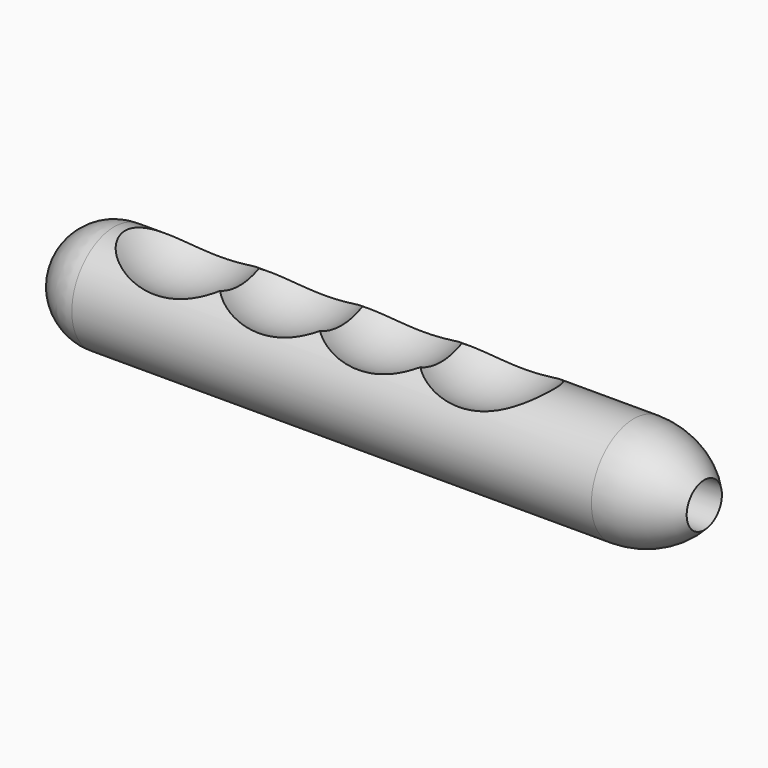
from build123d import *

# Parameters (mm, degrees)
F6_D     = 8.636
F6_DEPTH = 92.9581977781


with BuildPart() as f1:
    # F0 (on Front) → F1 (revolve)
    with BuildSketch(Plane.XZ):
        with BuildLine():
            ThreePointArc((16.7571976781, 0), (9.8628798796, 7.5934190246), (0, 10.4068210348))
            Line((0, 10.4068210348), (-101.8486917019, 10.4068210348))
            ThreePointArc((-101.8486917019, 10.4068210348), (-109.2434617648, 7.3648443388), (-112.3571917415, 0))
            Line((-112.3571917415, 0), (16.7571976781, 0))
        make_face()
    revolve(axis=Axis((-47.7999970317, 0, 0), (-1, 0, 0)))

    # F2 (on Front) → F3 (revolve, cut)
    with BuildSketch(Plane.XZ):
        with BuildLine():
            ThreePointArc((-57.3450438678, 31.5851293372), (-67.3921211303, 35.0517985606), (-77.2846598079, 31.1660250808))
            ThreePointArc((-77.2846598079, 31.1660250808), (-93.7861129832, 33.7100147171), (-102.8604035241, 19.694769755))
            Line((-102.8604035241, 19.694769755), (-87.4999828438, 19.694769755))
            Line((-87.4999828438, 19.694769755), (-27.925979346, 19.694769755))
            Line((-27.925979346, 19.694769755), (-12.5655586657, 19.694769755))
            ThreePointArc((-12.5655586657, 19.694769755), (-21.4189625621, 33.6088365959), (-37.7733651549, 31.4833878339))
            ThreePointArc((-37.7733651549, 31.4833878339), (-47.5409023622, 35.0549828941), (-57.3450438678, 31.5851293372))
        make_face()
    revolve(axis=Axis((-57.7129810949, 0, 19.694769755), (1, 0, 0)), mode=Mode.SUBTRACT)

    # F6 (through all, one way)
    with BuildSketch(Plane(origin=(-76.2, 0, 0), x_dir=(0, 1, 0), z_dir=(-1, 0, 0))):
        with Locations((0, 0)):
            Circle(F6_D / 2)
    extrude(amount=-F6_DEPTH, mode=Mode.SUBTRACT)


solid = f1.part
